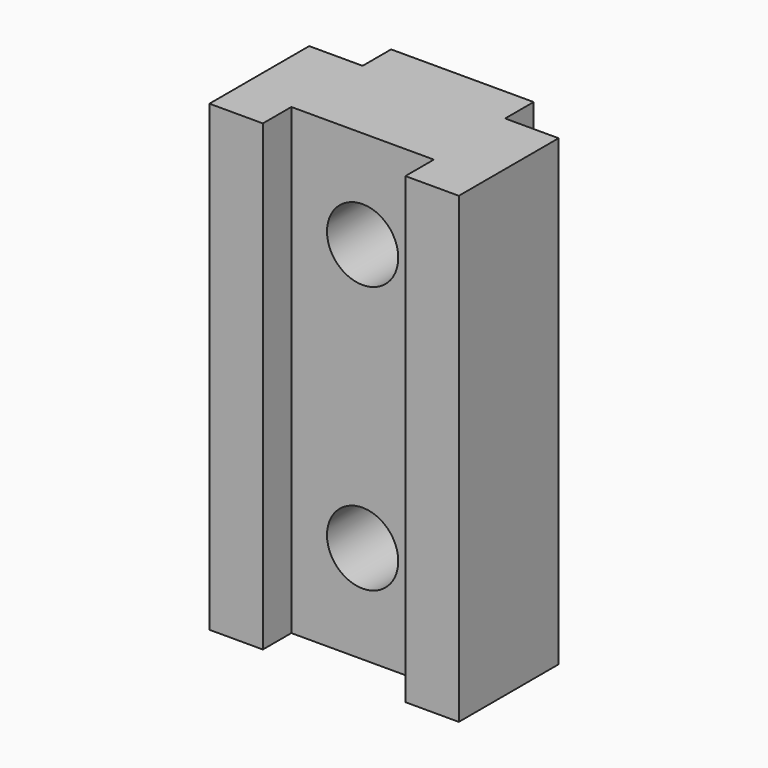
from build123d import *

# Parameters (mm, degrees)
F1_DEPTH = 25.4
F2_DEPTH = 139.7
F3_R     = 12.7
F4_DEPTH = 44.45
F5_DEPTH = 44.45


with BuildPart() as f1:
    # F0 (on Top) → F1 (new body)
    with BuildSketch(Plane.XY):
        Polygon((-19.05, 0), (0, 0), (0, 12.7), (50.8, 12.7), (50.8, 0), (69.85, 0), (69.85, 44.45), (50.8, 44.45), (50.8, 57.15), (0, 57.15), (0, 44.45), (-19.05, 44.45), align=None)
    extrude(amount=F1_DEPTH)

    # F1_face (on face) → F2 (join)
    with BuildSketch(Plane(origin=(25.4, 29.482143, 25.4), x_dir=(1, 0, 0), z_dir=(0, 0, 1))):
        Polygon((-44.45, -29.482143), (-25.4, -29.482143), (-25.4, -16.782143), (25.4, -16.782143), (25.4, -29.482143), (44.45, -29.482143), (44.45, 14.967857), (25.4, 14.967857), (25.4, 27.667857), (-25.4, 27.667857), (-25.4, 14.967857), (-44.45, 14.967857), align=None)
    extrude(amount=F2_DEPTH)

    # F3 (on face) → F4 (cut, through all)
    with BuildSketch(Plane(origin=(0, 57.15, 0), x_dir=(-1, 0, 0), z_dir=(0, 1, 0))):
        with Locations((-25.4, 130.175)):
            Circle(F3_R)
    extrude(amount=-F4_DEPTH, mode=Mode.SUBTRACT)

    # F3 (on face) → F5 (cut, through all)
    with BuildSketch(Plane(origin=(0, 57.15, 0), x_dir=(-1, 0, 0), z_dir=(0, 1, 0))):
        with Locations((-25.4, 34.925)):
            Circle(F3_R)
    extrude(amount=-F5_DEPTH, mode=Mode.SUBTRACT)


solid = f1.part
